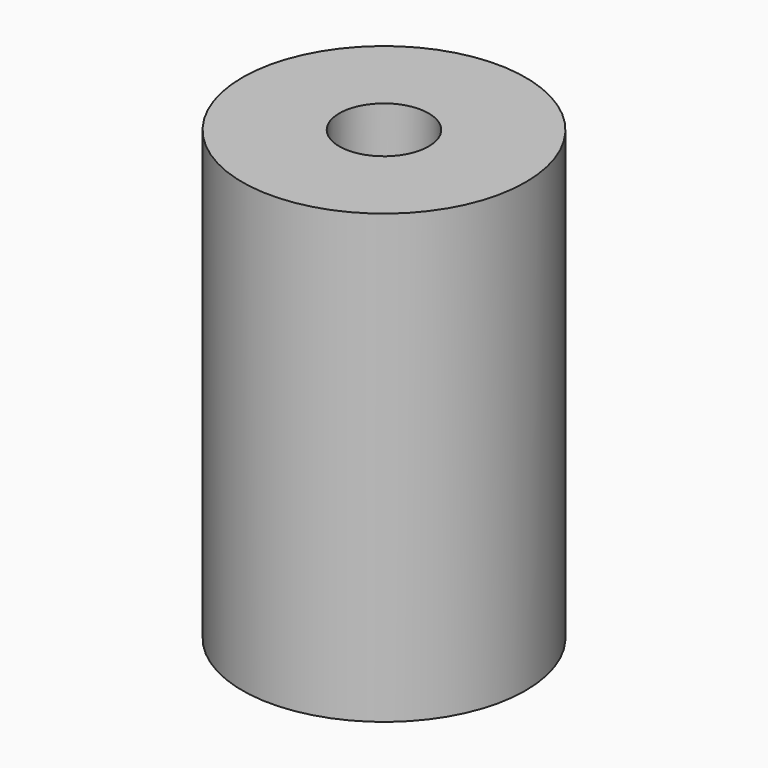
from build123d import *

# Parameters (mm, degrees)
F0_R     = 4.75
F1_DEPTH = 15
F2_R     = 1.5
F3_DEPTH = 7.5
F4_R     = 2
F5_DEPTH = 7.5
F8_D     = 3.5
F8_DEPTH = 5
F8_TIP   = 1.0515060833
F9_D     = 3.5
F9_DEPTH = 5
F9_TIP   = 1.0515060833


with BuildPart() as f1:
    # F0 (on Top) → F1 (new body)
    with BuildSketch(Plane.XY):
        Circle(F0_R)
    extrude(amount=F1_DEPTH)

    # F2 (on face) → F3 (cut)
    with BuildSketch(Plane.XY.offset(15)):
        Circle(F2_R)
    extrude(amount=-F3_DEPTH, mode=Mode.SUBTRACT)

    # F4 (on Top) → F5 (cut)
    with BuildSketch(Plane.XY):
        Circle(F4_R)
    extrude(amount=F5_DEPTH, mode=Mode.SUBTRACT)

    # F8 (one way)
    with BuildSketch(Plane.XZ):
        with Locations((0, 11)):
            Circle(F8_D / 2)
    extrude(amount=-F8_DEPTH, mode=Mode.SUBTRACT)
    with Locations(Plane.XZ):
        with Locations((0, 11)):
            with Locations((0, 0, -(F8_DEPTH + F8_TIP / 2))):  # 118° drill point
                Cone(0, F8_D / 2, F8_TIP, mode=Mode.SUBTRACT)

    # F9 (one way)
    with BuildSketch(Plane.XZ):
        with Locations((0, 4)):
            Circle(F9_D / 2)
    extrude(amount=-F9_DEPTH, mode=Mode.SUBTRACT)
    with Locations(Plane.XZ):
        with Locations((0, 4)):
            with Locations((0, 0, -(F9_DEPTH + F9_TIP / 2))):  # 118° drill point
                Cone(0, F9_D / 2, F9_TIP, mode=Mode.SUBTRACT)


solid = f1.part
